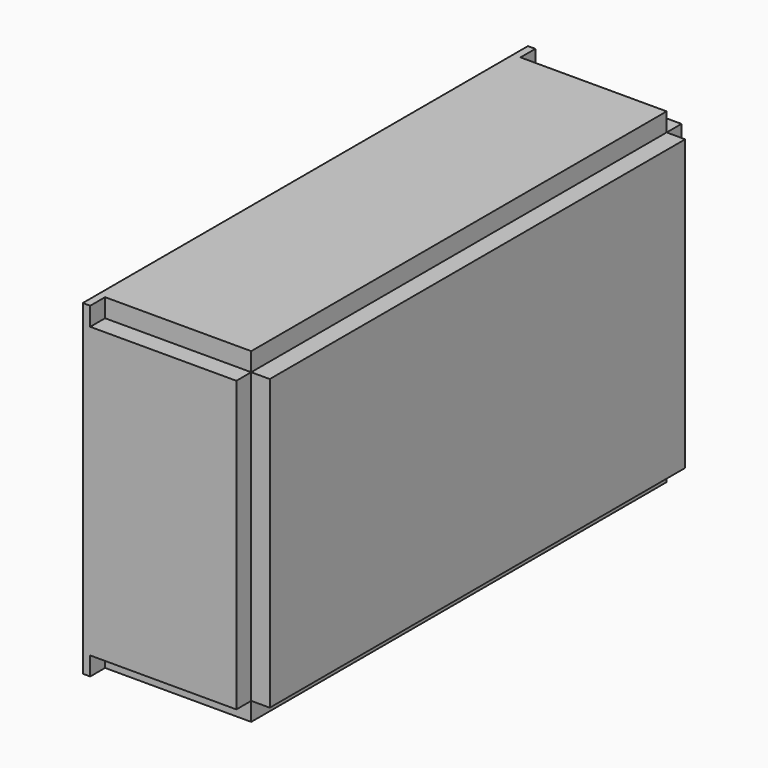
from build123d import *

# Parameters (mm, degrees)
BOX152_W                  = 26
BOX152_H                  = 26
BOX152_DEPTH              = 223
BOX153_W                  = 26
BOX153_H                  = 26
BOX153_DEPTH              = 223
BOX154_W                  = 26
BOX154_H                  = 26
BOX154_DEPTH              = 223
BOX155_W                  = 26
BOX155_H                  = 26
BOX155_DEPTH              = 223
BOX156_W                  = 26
BOX156_H                  = 26
BOX156_DEPTH              = 442
BOX157_W                  = 26
BOX157_H                  = 26
BOX157_DEPTH              = 442
BOX158_W                  = 26
BOX158_H                  = 26
BOX158_DEPTH              = 752
BOX159_W                  = 26
BOX159_H                  = 26
BOX159_DEPTH              = 752
CYLINDER049_R             = 20
CYLINDER049_DEPTH         = 77
CYLINDER048_R             = 20
CYLINDER048_DEPTH         = 77
BOX147_W                  = 26.57
BOX147_H                  = 46
BOX147_DEPTH              = 40
CYLINDER051_R             = 20
CYLINDER051_DEPTH         = 77
CYLINDER050_R             = 20
CYLINDER050_DEPTH         = 77
BOX148_W                  = 26.57
BOX148_H                  = 46
BOX148_DEPTH              = 40
CYLINDER053_R             = 20
CYLINDER053_DEPTH         = 77
CYLINDER052_R             = 20
CYLINDER052_DEPTH         = 77
BOX149_W                  = 26.57
BOX149_H                  = 46
BOX149_DEPTH              = 40
BOX150_W                  = 26.57
BOX150_H                  = 46
BOX150_DEPTH              = 40
CYLINDER056_R             = 20
CYLINDER056_DEPTH         = 77
BOX151_W                  = 26.57
BOX151_H                  = 56
BOX151_DEPTH              = 40
FUSION051_PLACEMENT_ANGLE = 90
BOX139_W                  = 182
BOX139_H                  = 85
BOX139_DEPTH              = 60
BOX140_W                  = 172
BOX140_H                  = 67.5
BOX140_DEPTH              = 60
BOX141_W                  = 197
BOX141_H                  = 115.5
BOX141_DEPTH              = 34
BOX142_W                  = 222
BOX142_H                  = 167.5
BOX142_DEPTH              = 7
BOX143_W                  = 182
BOX143_H                  = 85
BOX143_DEPTH              = 60
BOX144_W                  = 172
BOX144_H                  = 67.5
BOX144_DEPTH              = 60
BOX145_W                  = 197
BOX145_H                  = 115.5
BOX145_DEPTH              = 34
BOX146_W                  = 222
BOX146_H                  = 167.5
BOX146_DEPTH              = 7
BOX131_W                  = 182
BOX131_H                  = 85
BOX131_DEPTH              = 60
BOX132_W                  = 172
BOX132_H                  = 67.5
BOX132_DEPTH              = 60
BOX133_W                  = 197
BOX133_H                  = 115.5
BOX133_DEPTH              = 34
BOX134_W                  = 222
BOX134_H                  = 167.5
BOX134_DEPTH              = 7
BOX135_W                  = 182
BOX135_H                  = 85
BOX135_DEPTH              = 60
BOX136_W                  = 172
BOX136_H                  = 67.5
BOX136_DEPTH              = 60
BOX137_W                  = 197
BOX137_H                  = 115.5
BOX137_DEPTH              = 34
BOX138_W                  = 222
BOX138_H                  = 167.5
BOX138_DEPTH              = 7
BOX057_W                  = 222
BOX057_H                  = 190
BOX057_DEPTH              = 67
BOX058_W                  = 247
BOX058_H                  = 290
BOX058_DEPTH              = 31.5
BOX059_W                  = 177
BOX059_H                  = 95
BOX059_DEPTH              = 64.5
BOX060_W                  = 177
BOX060_H                  = 35
BOX060_DEPTH              = 18.5
BOX056_W                  = 267
BOX056_H                  = 103
BOX056_DEPTH              = 63
BOX062_W                  = 172
BOX062_H                  = 67.5
BOX062_DEPTH              = 60
BOX061_W                  = 177
BOX061_H                  = 85
BOX061_DEPTH              = 60
BOX065_W                  = 197
BOX065_H                  = 115.5
BOX065_DEPTH              = 34
BOX066_W                  = 222
BOX066_H                  = 167.5
BOX066_DEPTH              = 7
BOX063_W                  = 182
BOX063_H                  = 85
BOX063_DEPTH              = 60
BOX064_W                  = 172
BOX064_H                  = 67.5
BOX064_DEPTH              = 60
BOX069_W                  = 197
BOX069_H                  = 115.5
BOX069_DEPTH              = 34
BOX070_W                  = 222
BOX070_H                  = 167.5
BOX070_DEPTH              = 7
BOX067_W                  = 182
BOX067_H                  = 85
BOX067_DEPTH              = 60
BOX068_W                  = 172
BOX068_H                  = 67.5
BOX068_DEPTH              = 60
BOX072_W                  = 222
BOX072_H                  = 190
BOX072_DEPTH              = 67
BOX073_W                  = 247
BOX073_H                  = 290
BOX073_DEPTH              = 31.5
BOX074_W                  = 177
BOX074_H                  = 95
BOX074_DEPTH              = 64.5
BOX075_W                  = 177
BOX075_H                  = 35
BOX075_DEPTH              = 18.5
BOX071_W                  = 267
BOX071_H                  = 103
BOX071_DEPTH              = 63
BOX076_W                  = 152
BOX076_H                  = 30
BOX076_DEPTH              = 545
BOX078_W                  = 237
BOX078_H                  = 55
BOX078_DEPTH              = 124
BOX077_W                  = 237
BOX077_H                  = 28
BOX077_DEPTH              = 124
BOX079_W                  = 237
BOX079_H                  = 93
BOX079_DEPTH              = 71
BOX081_W                  = 205
BOX081_H                  = 131
BOX081_DEPTH              = 119
BOX081_ROLL_ANGLE         = 118
BOX081_PLACEMENT_ANGLE    = 180
BOX080_W                  = 187
BOX080_H                  = 131
BOX080_DEPTH              = 119
BOX084_W                  = 237
BOX084_H                  = 75
BOX084_DEPTH              = 70
BOX083_W                  = 237
BOX083_H                  = 75
BOX083_DEPTH              = 70
BOX085_W                  = 237
BOX085_H                  = 75
BOX085_DEPTH              = 70
BOX082_W                  = 237
BOX082_H                  = 75
BOX082_DEPTH              = 70
BOX086_W                  = 222
BOX086_H                  = 174
BOX086_DEPTH              = 55
BOX087_W                  = 247
BOX087_H                  = 133
BOX087_DEPTH              = 45
BOX088_W                  = 267
BOX088_H                  = 32
BOX088_DEPTH              = 220
BOX089_W                  = 267
BOX089_H                  = 32
BOX089_DEPTH              = 101
BOX091_W                  = 237
BOX091_H                  = 123
BOX091_DEPTH              = 16
CYLINDER040_R             = 20
CYLINDER040_DEPTH         = 77
BOX092_W                  = 237
BOX092_H                  = 123
BOX092_DEPTH              = 16
CYLINDER041_R             = 20
CYLINDER041_DEPTH         = 77
BOX093_W                  = 237
BOX093_H                  = 123
BOX093_DEPTH              = 16
CYLINDER042_R             = 20
CYLINDER042_DEPTH         = 77
BOX094_W                  = 237
BOX094_H                  = 123
BOX094_DEPTH              = 16
CYLINDER043_R             = 20
CYLINDER043_DEPTH         = 77
BOX095_W                  = 237
BOX095_H                  = 123
BOX095_DEPTH              = 16
CYLINDER044_R             = 20
CYLINDER044_DEPTH         = 77
BOX096_W                  = 237
BOX096_H                  = 123
BOX096_DEPTH              = 16
CYLINDER045_R             = 20
CYLINDER045_DEPTH         = 77
BOX097_W                  = 750
BOX097_H                  = 232
BOX097_DEPTH              = 440


with BuildPart() as cube112:
    # Box152 → Box152 (new body)
    with BuildSketch(Plane(origin=(238, -256, -232), x_dir=(0, 0, 1), z_dir=(-1, 0, 0))):
        with Locations((13, 13)):
            Rectangle(BOX152_W, BOX152_H)
    extrude(amount=BOX152_DEPTH)


with BuildPart() as cube113:
    # Box153 → Box153 (new body)
    with BuildSketch(Plane(origin=(238, -256, 210), x_dir=(0, 1, 0), z_dir=(-1, 0, 0))):
        with Locations((13, 13)):
            Rectangle(BOX153_W, BOX153_H)
    extrude(amount=BOX153_DEPTH)


with BuildPart() as cube114:
    # Box154 → Box154 (new body)
    with BuildSketch(Plane(origin=(238, 496, -232), x_dir=(0, -1, 0), z_dir=(-1, 0, 0))):
        with Locations((13, 13)):
            Rectangle(BOX154_W, BOX154_H)
    extrude(amount=BOX154_DEPTH)


with BuildPart() as cube115:
    # Box155 → Box155 (new body)
    with BuildSketch(Plane(origin=(238, 496, 210), x_dir=(0, 0, -1), z_dir=(-1, 0, 0))):
        with Locations((13, 13)):
            Rectangle(BOX155_W, BOX155_H)
    extrude(amount=BOX155_DEPTH)


with BuildPart() as cube116:
    # Box156 → Box156 (new body)
    with BuildSketch(Plane(origin=(238, 496, 210), x_dir=(0, -1, 0), z_dir=(0, 0, -1))):
        with Locations((13, 13)):
            Rectangle(BOX156_W, BOX156_H)
    extrude(amount=BOX156_DEPTH)


with BuildPart() as cube117:
    # Box157 → Box157 (new body)
    with BuildSketch(Plane(origin=(238, -230, 210), x_dir=(0, -1, 0), z_dir=(0, 0, -1))):
        with Locations((13, 13)):
            Rectangle(BOX157_W, BOX157_H)
    extrude(amount=BOX157_DEPTH)


with BuildPart() as cube118:
    # Box158 → Box158 (new body)
    with BuildSketch(Plane(origin=(238, 496, 210), x_dir=(-1, 0, 0), z_dir=(0, -1, 0))):
        with Locations((13, 13)):
            Rectangle(BOX158_W, BOX158_H)
    extrude(amount=BOX158_DEPTH)


with BuildPart() as supportbeams:
    # Box159 → Box159 (new body)
    with BuildSketch(Plane(origin=(238, 496, -206), x_dir=(-1, 0, 0), z_dir=(0, -1, 0))):
        with Locations((13, 13)):
            Rectangle(BOX159_W, BOX159_H)
    extrude(amount=BOX159_DEPTH)

    # Fusion055: union Cube112, Cube113, Cube114, Cube115, Cube116, Cube117, Cube118
    add(cube112.part)
    add(cube113.part)
    add(cube114.part)
    add(cube115.part)
    add(cube116.part)
    add(cube117.part)
    add(cube118.part)


with BuildPart() as cylinder049:
    # Cylinder049 → Cylinder049 (new body)
    with BuildSketch(Plane(origin=(26.57, -213.5, -152), x_dir=(0, 0, 1), z_dir=(-1, 0, 0))):
        Circle(CYLINDER049_R)
    extrude(amount=CYLINDER049_DEPTH)


with BuildPart() as cylinder048:
    # Cylinder048 → Cylinder048 (new body)
    with BuildSketch(Plane(origin=(26.57, -167.5, -152), x_dir=(0, 0, 1), z_dir=(-1, 0, 0))):
        Circle(CYLINDER048_R)
    extrude(amount=CYLINDER048_DEPTH)


with BuildPart() as fusion048:
    # Box147 → Box147 (new body)
    with BuildSketch(Plane(origin=(0, -213.5, -172), x_dir=(1, 0, 0), z_dir=(0, 0, 1))):
        with Locations((13.285, 23)):
            Rectangle(BOX147_W, BOX147_H)
    extrude(amount=BOX147_DEPTH)

    # Fusion048: union Cylinder049, Cylinder048
    add(cylinder049.part)
    add(cylinder048.part)


with BuildPart() as cylinder051:
    # Cylinder051 → Cylinder051 (new body)
    with BuildSketch(Plane(origin=(26.57, -213.5, -152), x_dir=(0, 0, 1), z_dir=(-1, 0, 0))):
        Circle(CYLINDER051_R)
    extrude(amount=CYLINDER051_DEPTH)


with BuildPart() as cylinder050:
    # Cylinder050 → Cylinder050 (new body)
    with BuildSketch(Plane(origin=(26.57, -167.5, -152), x_dir=(0, 0, 1), z_dir=(-1, 0, 0))):
        Circle(CYLINDER050_R)
    extrude(amount=CYLINDER050_DEPTH)


with BuildPart() as fusion049:
    # Box148 → Box148 (new body)
    with BuildSketch(Plane(origin=(0, -213.5, -172), x_dir=(1, 0, 0), z_dir=(0, 0, 1))):
        with Locations((13.285, 23)):
            Rectangle(BOX148_W, BOX148_H)
    extrude(amount=BOX148_DEPTH)

    # Fusion049: union Cylinder051, Cylinder050
    add(cylinder051.part)
    add(cylinder050.part)


with BuildPart() as fusion049_1:
    # Fusion049 placement: moved
    add(fusion049.part.moved(Location((0, 0, 140))))


with BuildPart() as cylinder053:
    # Cylinder053 → Cylinder053 (new body)
    with BuildSketch(Plane(origin=(26.57, -213.5, -152), x_dir=(0, 0, 1), z_dir=(-1, 0, 0))):
        Circle(CYLINDER053_R)
    extrude(amount=CYLINDER053_DEPTH)


with BuildPart() as cylinder052:
    # Cylinder052 → Cylinder052 (new body)
    with BuildSketch(Plane(origin=(26.57, -167.5, -152), x_dir=(0, 0, 1), z_dir=(-1, 0, 0))):
        Circle(CYLINDER052_R)
    extrude(amount=CYLINDER052_DEPTH)


with BuildPart() as fusion050:
    # Box149 → Box149 (new body)
    with BuildSketch(Plane(origin=(0, -213.5, -172), x_dir=(1, 0, 0), z_dir=(0, 0, 1))):
        with Locations((13.285, 23)):
            Rectangle(BOX149_W, BOX149_H)
    extrude(amount=BOX149_DEPTH)

    # Fusion050: union Cylinder053, Cylinder052
    add(cylinder053.part)
    add(cylinder052.part)


with BuildPart() as fusion050_1:
    # Fusion050 placement: moved
    add(fusion050.part.moved(Location((0, 0, 280))))


with BuildPart() as cube110:
    # Box150 → Box150 (new body)
    with BuildSketch(Plane(origin=(0, 184.5, -89), x_dir=(1, 0, 0), z_dir=(0, -1, 0))):
        with Locations((13.285, 23)):
            Rectangle(BOX150_W, BOX150_H)
    extrude(amount=BOX150_DEPTH)


with BuildPart() as cylinder056:
    # Cylinder056 → Cylinder056 (new body)
    with BuildSketch(Plane(origin=(26.57, -213.5, -152), x_dir=(0, 0, 1), z_dir=(-1, 0, 0))):
        Circle(CYLINDER056_R)
    extrude(amount=CYLINDER056_DEPTH)


with BuildPart() as fusion052:
    # Box151 → Box151 (new body)
    with BuildSketch(Plane(origin=(0, -213.5, -172), x_dir=(1, 0, 0), z_dir=(0, 0, 1))):
        with Locations((13.285, 28)):
            Rectangle(BOX151_W, BOX151_H)
    extrude(amount=BOX151_DEPTH)

    # Fusion051: union Cylinder056
    add(cylinder056.part)


with BuildPart() as fusion052_1:
    # Fusion051 placement: moved
    add(fusion052.part.moved(Location((0, 49, 10))).rotate(Axis((0, 49, 10), (1, 0, 0)), FUSION051_PLACEMENT_ANGLE))

    # Fusion052: union Fusion048, Fusion049, Fusion050, Cube110
    add(fusion048.part)
    add(fusion049_1.part)
    add(fusion050_1.part)
    add(cube110.part)


with BuildPart() as cube099:
    # Box139 → Box139 (new body)
    with BuildSketch(Plane(origin=(131.57, 81, 41.646476), x_dir=(-1, 0, 0), z_dir=(0, 1, 0))):
        with Locations((91, 42.5)):
            Rectangle(BOX139_W, BOX139_H)
    extrude(amount=BOX139_DEPTH)


with BuildPart() as cube100:
    # Box140 → Box140 (new body)
    with BuildSketch(Plane(origin=(121.570357, 141, 50.646476), x_dir=(-1, 0, 0), z_dir=(0, 1, 0))):
        with Locations((86, 33.75)):
            Rectangle(BOX140_W, BOX140_H)
    extrude(amount=BOX140_DEPTH)


with BuildPart() as cube101:
    # Box141 → Box141 (new body)
    with BuildSketch(Plane(origin=(146.570357, 131, 27.646476), x_dir=(-1, 0, 0), z_dir=(0, 1, 0))):
        with Locations((98.5, 57.75)):
            Rectangle(BOX141_W, BOX141_H)
    extrude(amount=BOX141_DEPTH)


with BuildPart() as cube102:
    # Box142 → Box142 (new body)
    with BuildSketch(Plane(origin=(171.570357, 128, 0.646476), x_dir=(-1, 0, 0), z_dir=(0, 1, 0))):
        with Locations((111, 83.75)):
            Rectangle(BOX142_W, BOX142_H)
    extrude(amount=BOX142_DEPTH)


with BuildPart() as cube103:
    # Box143 → Box143 (new body)
    with BuildSketch(Plane(origin=(131.57, 81, 41.646476), x_dir=(-1, 0, 0), z_dir=(0, 1, 0))):
        with Locations((91, 42.5)):
            Rectangle(BOX143_W, BOX143_H)
    extrude(amount=BOX143_DEPTH)


with BuildPart() as cube104:
    # Box144 → Box144 (new body)
    with BuildSketch(Plane(origin=(121.570357, 141, 50.646476), x_dir=(-1, 0, 0), z_dir=(0, 1, 0))):
        with Locations((86, 33.75)):
            Rectangle(BOX144_W, BOX144_H)
    extrude(amount=BOX144_DEPTH)


with BuildPart() as cube105:
    # Box145 → Box145 (new body)
    with BuildSketch(Plane(origin=(146.570357, 131, 27.646476), x_dir=(-1, 0, 0), z_dir=(0, 1, 0))):
        with Locations((98.5, 57.75)):
            Rectangle(BOX145_W, BOX145_H)
    extrude(amount=BOX145_DEPTH)


with BuildPart() as fusion046:
    # Box146 → Box146 (new body)
    with BuildSketch(Plane(origin=(171.570357, 128, 0.646476), x_dir=(-1, 0, 0), z_dir=(0, 1, 0))):
        with Locations((111, 83.75)):
            Rectangle(BOX146_W, BOX146_H)
    extrude(amount=BOX146_DEPTH)

    # Fusion046: union Cube099, Cube100, Cube101, Cube102, Cube103, Cube104, Cube105
    add(cube099.part)
    add(cube100.part)
    add(cube101.part)
    add(cube102.part)
    add(cube103.part)
    add(cube104.part)
    add(cube105.part)


with BuildPart() as fusion046_1:
    # Fusion046 placement: moved
    add(fusion046.part.moved(Location((0, 132, 0))))


with BuildPart() as cube091:
    # Box131 → Box131 (new body)
    with BuildSketch(Plane(origin=(131.57, 81, 41.646476), x_dir=(-1, 0, 0), z_dir=(0, 1, 0))):
        with Locations((91, 42.5)):
            Rectangle(BOX131_W, BOX131_H)
    extrude(amount=BOX131_DEPTH)


with BuildPart() as cube092:
    # Box132 → Box132 (new body)
    with BuildSketch(Plane(origin=(121.570357, 141, 50.646476), x_dir=(-1, 0, 0), z_dir=(0, 1, 0))):
        with Locations((86, 33.75)):
            Rectangle(BOX132_W, BOX132_H)
    extrude(amount=BOX132_DEPTH)


with BuildPart() as cube093:
    # Box133 → Box133 (new body)
    with BuildSketch(Plane(origin=(146.570357, 131, 27.646476), x_dir=(-1, 0, 0), z_dir=(0, 1, 0))):
        with Locations((98.5, 57.75)):
            Rectangle(BOX133_W, BOX133_H)
    extrude(amount=BOX133_DEPTH)


with BuildPart() as cube094:
    # Box134 → Box134 (new body)
    with BuildSketch(Plane(origin=(171.570357, 128, 0.646476), x_dir=(-1, 0, 0), z_dir=(0, 1, 0))):
        with Locations((111, 83.75)):
            Rectangle(BOX134_W, BOX134_H)
    extrude(amount=BOX134_DEPTH)


with BuildPart() as cube095:
    # Box135 → Box135 (new body)
    with BuildSketch(Plane(origin=(131.57, 81, 41.646476), x_dir=(-1, 0, 0), z_dir=(0, 1, 0))):
        with Locations((91, 42.5)):
            Rectangle(BOX135_W, BOX135_H)
    extrude(amount=BOX135_DEPTH)


with BuildPart() as cube096:
    # Box136 → Box136 (new body)
    with BuildSketch(Plane(origin=(121.570357, 141, 50.646476), x_dir=(-1, 0, 0), z_dir=(0, 1, 0))):
        with Locations((86, 33.75)):
            Rectangle(BOX136_W, BOX136_H)
    extrude(amount=BOX136_DEPTH)


with BuildPart() as cube097:
    # Box137 → Box137 (new body)
    with BuildSketch(Plane(origin=(146.570357, 131, 27.646476), x_dir=(-1, 0, 0), z_dir=(0, 1, 0))):
        with Locations((98.5, 57.75)):
            Rectangle(BOX137_W, BOX137_H)
    extrude(amount=BOX137_DEPTH)


with BuildPart() as fusion047:
    # Box138 → Box138 (new body)
    with BuildSketch(Plane(origin=(171.570357, 128, 0.646476), x_dir=(-1, 0, 0), z_dir=(0, 1, 0))):
        with Locations((111, 83.75)):
            Rectangle(BOX138_W, BOX138_H)
    extrude(amount=BOX138_DEPTH)

    # Fusion045: union Cube091, Cube092, Cube093, Cube094, Cube095, Cube096, Cube097
    add(cube091.part)
    add(cube092.part)
    add(cube093.part)
    add(cube094.part)
    add(cube095.part)
    add(cube096.part)
    add(cube097.part)

    # Fusion047: union Fusion046
    add(fusion046_1.part)


with BuildPart() as cube052:
    # Box057 → Box057 (new body)
    with BuildSketch(Plane(origin=(171.570357, -4, -2.353524), x_dir=(-1, 0, 0), z_dir=(0, 1, 0))):
        with Locations((111, 95)):
            Rectangle(BOX057_W, BOX057_H)
    extrude(amount=BOX057_DEPTH)


with BuildPart() as cube053:
    # Box058 → Box058 (new body)
    with BuildSketch(Plane(origin=(196.570357, 18, -102.353524), x_dir=(-1, 0, 0), z_dir=(0, 1, 0))):
        with Locations((123.5, 145)):
            Rectangle(BOX058_W, BOX058_H)
    extrude(amount=BOX058_DEPTH)


with BuildPart() as cube054:
    # Box059 → Box059 (new body)
    with BuildSketch(Plane(origin=(126.570357, 2, -192.353524), x_dir=(-1, 0, 0), z_dir=(0, 1, 0))):
        with Locations((88.5, 47.5)):
            Rectangle(BOX059_W, BOX059_H)
    extrude(amount=BOX059_DEPTH)


with BuildPart() as cube055:
    # Box060 → Box060 (new body)
    with BuildSketch(Plane(origin=(126.570357, 65, -134.353524), x_dir=(-1, 0, 0), z_dir=(0, 1, 0))):
        with Locations((88.5, 17.5)):
            Rectangle(BOX060_W, BOX060_H)
    extrude(amount=BOX060_DEPTH)


with BuildPart() as standard_envelope:
    # Box056 → Box056 (new body)
    with BuildSketch(Plane(origin=(216.570357, -2, 23.646476), x_dir=(-1, 0, 0), z_dir=(0, 1, 0))):
        with Locations((133.5, 51.5)):
            Rectangle(BOX056_W, BOX056_H)
    extrude(amount=BOX056_DEPTH)

    # Fusion027: union Cube052, Cube053, Cube054, Cube055
    add(cube052.part)
    add(cube053.part)
    add(cube054.part)
    add(cube055.part)


with BuildPart() as cube057:
    # Box062 → Box062 (new body)
    with BuildSketch(Plane(origin=(121.570357, 10, 50.646476), x_dir=(-1, 0, 0), z_dir=(0, 1, 0))):
        with Locations((86, 33.75)):
            Rectangle(BOX062_W, BOX062_H)
    extrude(amount=BOX062_DEPTH)


with BuildPart() as front_lenses_envelope:
    # Box061 → Box061 (new body)
    with BuildSketch(Plane(origin=(126.570357, -51, 41.646476), x_dir=(-1, 0, 0), z_dir=(0, 1, 0))):
        with Locations((88.5, 42.5)):
            Rectangle(BOX061_W, BOX061_H)
    extrude(amount=BOX061_DEPTH)

    # Fusion028: union Cube057
    add(cube057.part)


with BuildPart() as cube060:
    # Box065 → Box065 (new body)
    with BuildSketch(Plane(origin=(146.570357, 131, 27.646476), x_dir=(-1, 0, 0), z_dir=(0, 1, 0))):
        with Locations((98.5, 57.75)):
            Rectangle(BOX065_W, BOX065_H)
    extrude(amount=BOX065_DEPTH)


with BuildPart() as fusion029:
    # Box066 → Box066 (new body)
    with BuildSketch(Plane(origin=(171.570357, 128, 0.646476), x_dir=(-1, 0, 0), z_dir=(0, 1, 0))):
        with Locations((111, 83.75)):
            Rectangle(BOX066_W, BOX066_H)
    extrude(amount=BOX066_DEPTH)

    # Fusion029: union Cube060
    add(cube060.part)


with BuildPart() as cube058:
    # Box063 → Box063 (new body)
    with BuildSketch(Plane(origin=(131.57, 81, 41.646476), x_dir=(-1, 0, 0), z_dir=(0, 1, 0))):
        with Locations((91, 42.5)):
            Rectangle(BOX063_W, BOX063_H)
    extrude(amount=BOX063_DEPTH)


with BuildPart() as all_lenses_envelope:
    # Box064 → Box064 (new body)
    with BuildSketch(Plane(origin=(121.570357, 141, 50.646476), x_dir=(-1, 0, 0), z_dir=(0, 1, 0))):
        with Locations((86, 33.75)):
            Rectangle(BOX064_W, BOX064_H)
    extrude(amount=BOX064_DEPTH)

    # Fusion030: union Cube058
    add(cube058.part)

    # Compound: union Fusion029
    add(fusion029.part)


with BuildPart() as cube064:
    # Box069 → Box069 (new body)
    with BuildSketch(Plane(origin=(146.570357, 131, 27.646476), x_dir=(-1, 0, 0), z_dir=(0, 1, 0))):
        with Locations((98.5, 57.75)):
            Rectangle(BOX069_W, BOX069_H)
    extrude(amount=BOX069_DEPTH)


with BuildPart() as fusion031:
    # Box070 → Box070 (new body)
    with BuildSketch(Plane(origin=(171.570357, 128, 0.646476), x_dir=(-1, 0, 0), z_dir=(0, 1, 0))):
        with Locations((111, 83.75)):
            Rectangle(BOX070_W, BOX070_H)
    extrude(amount=BOX070_DEPTH)

    # Fusion031: union Cube064
    add(cube064.part)


with BuildPart() as cube062:
    # Box067 → Box067 (new body)
    with BuildSketch(Plane(origin=(131.57, 81, 41.646476), x_dir=(-1, 0, 0), z_dir=(0, 1, 0))):
        with Locations((91, 42.5)):
            Rectangle(BOX067_W, BOX067_H)
    extrude(amount=BOX067_DEPTH)


with BuildPart() as all_lenses_envelope001:
    # Box068 → Box068 (new body)
    with BuildSketch(Plane(origin=(121.570357, 141, 50.646476), x_dir=(-1, 0, 0), z_dir=(0, 1, 0))):
        with Locations((86, 33.75)):
            Rectangle(BOX068_W, BOX068_H)
    extrude(amount=BOX068_DEPTH)

    # Fusion032: union Cube062
    add(cube062.part)

    # Compound001: union Fusion031
    add(fusion031.part)


with BuildPart() as all_lenses_envelope001_1:
    # Compound001 placement: moved
    add(all_lenses_envelope001.part.moved(Location((0, 132, 0))))


with BuildPart() as cube067:
    # Box072 → Box072 (new body)
    with BuildSketch(Plane(origin=(171.570357, -4, -2.353524), x_dir=(-1, 0, 0), z_dir=(0, 1, 0))):
        with Locations((111, 95)):
            Rectangle(BOX072_W, BOX072_H)
    extrude(amount=BOX072_DEPTH)


with BuildPart() as cube068:
    # Box073 → Box073 (new body)
    with BuildSketch(Plane(origin=(196.570357, 18, -102.353524), x_dir=(-1, 0, 0), z_dir=(0, 1, 0))):
        with Locations((123.5, 145)):
            Rectangle(BOX073_W, BOX073_H)
    extrude(amount=BOX073_DEPTH)


with BuildPart() as cube069:
    # Box074 → Box074 (new body)
    with BuildSketch(Plane(origin=(126.570357, 2, -192.353524), x_dir=(-1, 0, 0), z_dir=(0, 1, 0))):
        with Locations((88.5, 47.5)):
            Rectangle(BOX074_W, BOX074_H)
    extrude(amount=BOX074_DEPTH)


with BuildPart() as cube070:
    # Box075 → Box075 (new body)
    with BuildSketch(Plane(origin=(126.570357, 65, -134.353524), x_dir=(-1, 0, 0), z_dir=(0, 1, 0))):
        with Locations((88.5, 17.5)):
            Rectangle(BOX075_W, BOX075_H)
    extrude(amount=BOX075_DEPTH)


with BuildPart() as standard_envelope001:
    # Box071 → Box071 (new body)
    with BuildSketch(Plane(origin=(216.570357, -2, 23.646476), x_dir=(-1, 0, 0), z_dir=(0, 1, 0))):
        with Locations((133.5, 51.5)):
            Rectangle(BOX071_W, BOX071_H)
    extrude(amount=BOX071_DEPTH)

    # Fusion033: union Cube067, Cube068, Cube069, Cube070
    add(cube067.part)
    add(cube068.part)
    add(cube069.part)
    add(cube070.part)


with BuildPart() as part_mirroring:
    # Part__Mirroring: instance of Standard envelope001
    add(standard_envelope001.part.mirror(Plane(origin=(0, 0, 0), x_dir=(1, 0, 0), z_dir=(0, 1, 0))))


with BuildPart() as part_mirroring_1:
    # Part__Mirroring placement: moved
    add(part_mirroring.part.moved(Location((0, 407.25, 0))))


with BuildPart() as rod_envelope:
    # Box076 → Box076 (new body)
    with BuildSketch(Plane(origin=(101.570357, -73, -157.353524), x_dir=(-1, 0, 0), z_dir=(0, 1, 0))):
        with Locations((76, 15)):
            Rectangle(BOX076_W, BOX076_H)
    extrude(amount=BOX076_DEPTH)


with BuildPart() as obj1:
    # Box078 → Box078 (new body)
    with BuildSketch(Plane(origin=(186.570357, 100, -72.353524), x_dir=(-1, 0, 0), z_dir=(0, 1, 0))):
        with Locations((118.5, 27.5)):
            Rectangle(BOX078_W, BOX078_H)
    extrude(amount=BOX078_DEPTH)


with BuildPart() as spacer_envelope:
    # Box077 → Box077 (new body)
    with BuildSketch(Plane(origin=(186.570357, 100, -110.353524), x_dir=(-1, 0, 0), z_dir=(0, 1, 0))):
        with Locations((118.5, 14)):
            Rectangle(BOX077_W, BOX077_H)
    extrude(amount=BOX077_DEPTH)


with BuildPart() as pocket:
    # Box079 → Box079 (new body)
    with BuildSketch(Plane(origin=(186.570357, 239, -110.353524), x_dir=(-1, 0, 0), z_dir=(0, 1, 0))):
        with Locations((118.5, 46.5)):
            Rectangle(BOX079_W, BOX079_H)
    extrude(amount=BOX079_DEPTH)


with BuildPart() as pocket002:
    # Box081 → Box081 (new body)
    with BuildSketch(Plane.XY):
        with Locations((102.5, 65.5)):
            Rectangle(BOX081_W, BOX081_H)
    extrude(amount=BOX081_DEPTH)


with BuildPart() as pocket002_1:
    # Box081 roll: moved
    add(pocket002.part.rotate(Axis((0, 0, 0), (1, 0, 0)), BOX081_ROLL_ANGLE))


with BuildPart() as pocket002_2:
    # Box081 placement: moved
    add(pocket002_1.part.moved(Location((141.57, -85, 25.646476))).rotate(Axis((141.57, -85, 25.646476), (0, 0, 1)), BOX081_PLACEMENT_ANGLE))


with BuildPart() as compound002:
    # Part__Mirroring001: instance of pocket002
    add(pocket002_2.part.mirror(Plane(origin=(0, 0, 0), x_dir=(0, 1, 0), z_dir=(0, 0, 1))))


with BuildPart() as compound002_1:
    # Compound002 placement: moved
    add(compound002.part.moved(Location((0, 0, -88))))


with BuildPart() as fusion034:
    # Fusion034 base: copy of pocket002
    add(pocket002_2.part)

    # Fusion034: union Compound002
    add(compound002_1.part)


with BuildPart() as prism001:
    # Box080 → Box080 (new body)
    with BuildSketch(Plane(origin=(136.57, -135, -109.353524), x_dir=(-1, 0, 0), z_dir=(0, 1, 0))):
        with Locations((93.5, 65.5)):
            Rectangle(BOX080_W, BOX080_H)
    extrude(amount=BOX080_DEPTH)

    # Cut018: cut Fusion034
    add(fusion034.part, mode=Mode.SUBTRACT)


with BuildPart() as pocket005:
    # Box084 → Box084 (new body)
    with BuildSketch(Plane(origin=(201.570357, -73, -17.353524), x_dir=(-1, 0, 0), z_dir=(0, 1, 0))):
        with Locations((118.5, 37.5)):
            Rectangle(BOX084_W, BOX084_H)
    extrude(amount=BOX084_DEPTH)


with BuildPart() as pocket004:
    # Box083 → Box083 (new body)
    with BuildSketch(Plane(origin=(201.570357, -161, -22.353524), x_dir=(-1, 0, 0), z_dir=(0, 1, 0))):
        with Locations((118.5, 37.5)):
            Rectangle(BOX083_W, BOX083_H)
    extrude(amount=BOX083_DEPTH)


with BuildPart() as fusion035:
    # Box085 → Box085 (new body)
    with BuildSketch(Plane(origin=(201.570357, -73, -137.353524), x_dir=(-1, 0, 0), z_dir=(0, 1, 0))):
        with Locations((118.5, 37.5)):
            Rectangle(BOX085_W, BOX085_H)
    extrude(amount=BOX085_DEPTH)

    # Fusion035: union pocket005, pocket004
    add(pocket005.part)
    add(pocket004.part)


with BuildPart() as obj2:
    # Box082 → Box082 (new body)
    with BuildSketch(Plane(origin=(196.570357, -122, -72.353524), x_dir=(-1, 0, 0), z_dir=(0, 1, 0))):
        with Locations((118.5, 37.5)):
            Rectangle(BOX082_W, BOX082_H)
    extrude(amount=BOX082_DEPTH)

    # Cut019: cut Fusion035
    add(fusion035.part, mode=Mode.SUBTRACT)


with BuildPart() as obj3:
    # Box086 → Box086 (new body)
    with BuildSketch(Plane(origin=(171.570357, 393, -2.353524), x_dir=(-1, 0, 0), z_dir=(0, 1, 0))):
        with Locations((111, 87)):
            Rectangle(BOX086_W, BOX086_H)
    extrude(amount=BOX086_DEPTH)


with BuildPart() as f_120_envelope:
    # Box087 → Box087 (new body)
    with BuildSketch(Plane(origin=(196.570357, -122, 54.646476), x_dir=(-1, 0, 0), z_dir=(0, 1, 0))):
        with Locations((123.5, 66.5)):
            Rectangle(BOX087_W, BOX087_H)
    extrude(amount=BOX087_DEPTH)


with BuildPart() as f_90mm_bellow_envelope:
    # Box088 → Box088 (new body)
    with BuildSketch(Plane(origin=(210.57, 93, -208.35), x_dir=(-1, 0, 0), z_dir=(0, 1, 0))):
        with Locations((133.5, 16)):
            Rectangle(BOX088_W, BOX088_H)
    extrude(amount=BOX088_DEPTH)


with BuildPart() as f_90mm_bellow_envelope001:
    # Box089 → Box089 (new body)
    with BuildSketch(Plane(origin=(210.57, -135, -208.35), x_dir=(-1, 0, 0), z_dir=(0, 1, 0))):
        with Locations((133.5, 16)):
            Rectangle(BOX089_W, BOX089_H)
    extrude(amount=BOX089_DEPTH)


with BuildPart() as f_120_envelope001:
    # Box091 → Box091 (new body)
    with BuildSketch(Plane(origin=(186.570357, -186, 61.646476), x_dir=(-1, 0, 0), z_dir=(0, 1, 0))):
        with Locations((118.5, 61.5)):
            Rectangle(BOX091_W, BOX091_H)
    extrude(amount=BOX091_DEPTH)


with BuildPart() as obj4:
    # Cylinder040 → Cylinder040 (new body)
    with BuildSketch(Plane(origin=(26.57, -178, 123), x_dir=(0, 0, 1), z_dir=(-1, 0, 0))):
        Circle(CYLINDER040_R)
    extrude(amount=CYLINDER040_DEPTH)

    # Compound003: union 120 envelope001
    add(f_120_envelope001.part)


with BuildPart() as f_120_envelope002:
    # Box092 → Box092 (new body)
    with BuildSketch(Plane(origin=(186.570357, -186, 61.646476), x_dir=(-1, 0, 0), z_dir=(0, 1, 0))):
        with Locations((118.5, 61.5)):
            Rectangle(BOX092_W, BOX092_H)
    extrude(amount=BOX092_DEPTH)


with BuildPart() as obj5:
    # Cylinder041 → Cylinder041 (new body)
    with BuildSketch(Plane(origin=(26.57, -178, 123), x_dir=(0, 0, 1), z_dir=(-1, 0, 0))):
        Circle(CYLINDER041_R)
    extrude(amount=CYLINDER041_DEPTH)

    # Compound004: union 120 envelope002
    add(f_120_envelope002.part)


with BuildPart() as obj5_1:
    # Compound004 placement: moved
    add(obj5.part.moved(Location((0, 0, -140))))


with BuildPart() as f_120_envelope003:
    # Box093 → Box093 (new body)
    with BuildSketch(Plane(origin=(186.570357, -186, 61.646476), x_dir=(-1, 0, 0), z_dir=(0, 1, 0))):
        with Locations((118.5, 61.5)):
            Rectangle(BOX093_W, BOX093_H)
    extrude(amount=BOX093_DEPTH)


with BuildPart() as obj6:
    # Cylinder042 → Cylinder042 (new body)
    with BuildSketch(Plane(origin=(26.57, -178, 123), x_dir=(0, 0, 1), z_dir=(-1, 0, 0))):
        Circle(CYLINDER042_R)
    extrude(amount=CYLINDER042_DEPTH)

    # Compound005: union 120 envelope003
    add(f_120_envelope003.part)


with BuildPart() as obj6_1:
    # Compound005 placement: moved
    add(obj6.part.moved(Location((0, 0, -280))))

    # Compound006: union obj4, obj5
    add(obj4.part)
    add(obj5_1.part)


with BuildPart() as obj6_2:
    # Compound006 placement: moved
    add(obj6_1.part.moved(Location((0, 10, 5))))


with BuildPart() as f_120_envelope004:
    # Box094 → Box094 (new body)
    with BuildSketch(Plane(origin=(186.570357, -186, 61.646476), x_dir=(-1, 0, 0), z_dir=(0, 1, 0))):
        with Locations((118.5, 61.5)):
            Rectangle(BOX094_W, BOX094_H)
    extrude(amount=BOX094_DEPTH)


with BuildPart() as obj7:
    # Cylinder043 → Cylinder043 (new body)
    with BuildSketch(Plane(origin=(26.57, -178, 123), x_dir=(0, 0, 1), z_dir=(-1, 0, 0))):
        Circle(CYLINDER043_R)
    extrude(amount=CYLINDER043_DEPTH)

    # Compound007: union 120 envelope004
    add(f_120_envelope004.part)


with BuildPart() as f_120_envelope005:
    # Box095 → Box095 (new body)
    with BuildSketch(Plane(origin=(186.570357, -186, 61.646476), x_dir=(-1, 0, 0), z_dir=(0, 1, 0))):
        with Locations((118.5, 61.5)):
            Rectangle(BOX095_W, BOX095_H)
    extrude(amount=BOX095_DEPTH)


with BuildPart() as obj8:
    # Cylinder044 → Cylinder044 (new body)
    with BuildSketch(Plane(origin=(26.57, -178, 123), x_dir=(0, 0, 1), z_dir=(-1, 0, 0))):
        Circle(CYLINDER044_R)
    extrude(amount=CYLINDER044_DEPTH)

    # Compound008: union 120 envelope005
    add(f_120_envelope005.part)


with BuildPart() as obj8_1:
    # Compound008 placement: moved
    add(obj8.part.moved(Location((0, 0, -140))))


with BuildPart() as f_120_envelope006:
    # Box096 → Box096 (new body)
    with BuildSketch(Plane(origin=(186.570357, -186, 61.646476), x_dir=(-1, 0, 0), z_dir=(0, 1, 0))):
        with Locations((118.5, 61.5)):
            Rectangle(BOX096_W, BOX096_H)
    extrude(amount=BOX096_DEPTH)


with BuildPart() as fusion044:
    # Cylinder045 → Cylinder045 (new body)
    with BuildSketch(Plane(origin=(26.57, -178, 123), x_dir=(0, 0, 1), z_dir=(-1, 0, 0))):
        Circle(CYLINDER045_R)
    extrude(amount=CYLINDER045_DEPTH)

    # Compound009: union 120 envelope006
    add(f_120_envelope006.part)


with BuildPart() as fusion044_1:
    # Compound009 placement: moved
    add(fusion044.part.moved(Location((0, 0, -280))))

    # Compound010: union obj7, obj8
    add(obj7.part)
    add(obj8_1.part)


with BuildPart() as fusion044_2:
    # Compound010 placement: moved
    add(fusion044_1.part.moved(Location((0, -35, 5))))

    # Compound011: union Standard envelope, Front lenses envelope, all lenses envelope, all lenses envelope001, Part__Mirroring, rod envelope, obj1, spacer envelope, pocket, prism001, obj2, obj3, 120 envelope, 90mm bellow envelope, 90mm bellow envelope001, obj6
    add(standard_envelope.part)
    add(front_lenses_envelope.part)
    add(all_lenses_envelope.part)
    add(all_lenses_envelope001_1.part)
    add(part_mirroring_1.part)
    add(rod_envelope.part)
    add(obj1.part)
    add(spacer_envelope.part)
    add(pocket.part)
    add(prism001.part)
    add(obj2.part)
    add(obj3.part)
    add(f_120_envelope.part)
    add(f_90mm_bellow_envelope.part)
    add(f_90mm_bellow_envelope001.part)
    add(obj6_2.part)


with BuildPart() as cut026:
    # Box097 → Box097 (new body)
    with BuildSketch(Plane(origin=(237, -255, -231), x_dir=(0, 1, 0), z_dir=(0, 0, 1))):
        with Locations((375, 116)):
            Rectangle(BOX097_W, BOX097_H)
    extrude(amount=BOX097_DEPTH)

    # Cut021: cut Fusion044
    add(fusion044_2.part, mode=Mode.SUBTRACT)

    # Cut022: cut Fusion047
    add(fusion047.part, mode=Mode.SUBTRACT)

    # Cut023: cut Fusion052
    add(fusion052_1.part, mode=Mode.SUBTRACT)

    # Cut026: cut Supportbeams
    add(supportbeams.part, mode=Mode.SUBTRACT)


with BuildPart() as cut026_1:
    # Cut026 placement: moved
    add(cut026.part.moved(Location((0, 758, 0))))


solid = cut026_1.part
